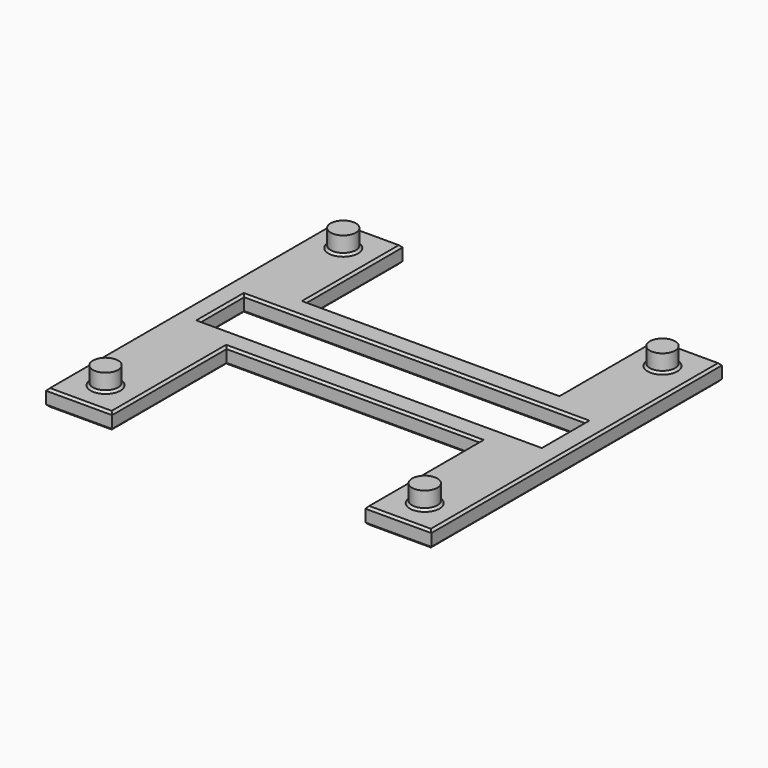
from build123d import *

# Parameters (mm, degrees)
SKETCH_W        = 31
SKETCH_H        = 5
PAD_DEPTH       = 1.5
SKETCH001_R     = 1.15
PAD001_DEPTH    = 1.6
CHAMFER_SIZE    = 0.2
CHAMFER001_SIZE = 0.2


with BuildPart() as part:
    # Sketch → Pad (new body)
    with BuildSketch(Plane.XY):
        Polygon((35, 0), (35, 33), (29, 33), (29, 22), (6, 22), (6, 33), (0, 33), (0, 0), (6, 0), (6, 13), (29, 13), (29, 0), align=None)
        with Locations((17.5, 17.5)):
            Rectangle(SKETCH_W, SKETCH_H, mode=Mode.SUBTRACT)
    extrude(amount=PAD_DEPTH)

    # Sketch001 → Pad001 (new body)
    with BuildSketch(Plane.XY.offset(1.5)):
        with Locations((3, 30)):
            Circle(SKETCH001_R)
        with Locations((32, 30)):
            Circle(SKETCH001_R)
        with Locations((32, 3)):
            Circle(SKETCH001_R)
        with Locations((3, 3)):
            Circle(SKETCH001_R)
    extrude(amount=PAD001_DEPTH)

    # Chamfer
    chamfer_edges = [part.edges().sort_by_distance(p)[0] for p in [
        (0, 16.5, 1.5),
        (3, 33, 1.5),
        (3, 0, 1.5),
        (6, 27.5, 1.5),
        (6, 6.5, 1.5),
        (17.5, 22, 1.5),
        (17.5, 13, 1.5),
        (29, 27.5, 1.5),
        (29, 6.5, 1.5),
        (32, 33, 1.5),
        (32, 0, 1.5),
        (35, 16.5, 1.5),
        (1.85, 3, 1.5),
        (30.85, 3, 1.5),
        (1.85, 30, 1.5),
        (30.85, 30, 1.5),
        (2, 17.5, 1.5),
        (17.5, 20, 1.5),
        (17.5, 15, 1.5),
        (33, 17.5, 1.5),
    ]]
    chamfer(chamfer_edges, length=CHAMFER_SIZE)

    # Chamfer001
    chamfer001_edges = [part.edges().sort_by_distance(p)[0] for p in [
        (0, 16.5, 0),
        (3, 0, 0),
        (6, 6.5, 0),
        (17.5, 13, 0),
        (29, 6.5, 0),
        (32, 0, 0),
        (35, 16.5, 0),
        (32, 33, 0),
        (29, 27.5, 0),
        (17.5, 22, 0),
        (6, 27.5, 0),
        (3, 33, 0),
        (2, 17.5, 0),
        (17.5, 20, 0),
        (33, 17.5, 0),
        (17.5, 15, 0),
    ]]
    chamfer(chamfer001_edges, length=CHAMFER001_SIZE)


solid = part.part
